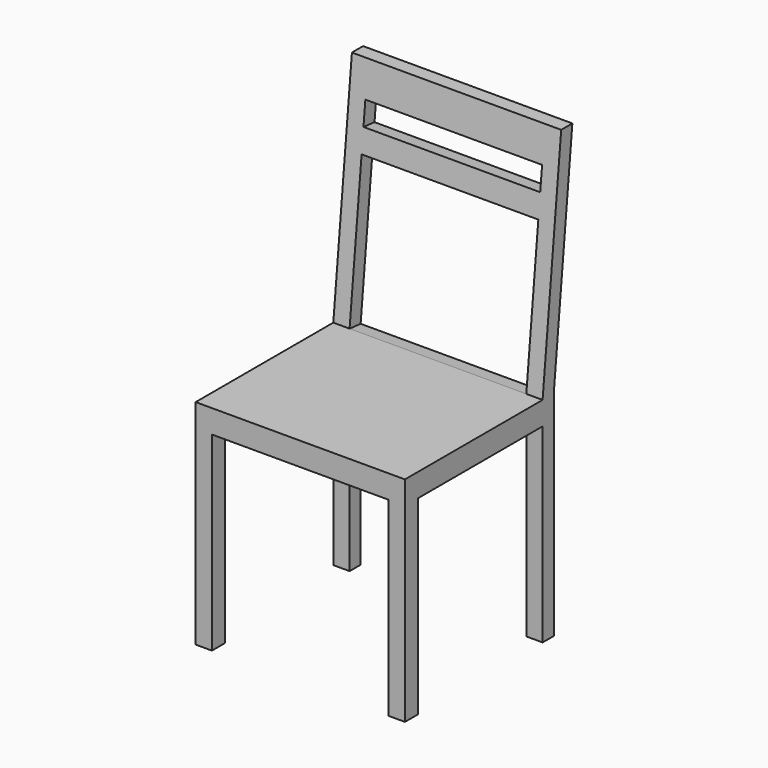
from build123d import *

# Parameters (mm, degrees)
F0_W     = 450
F0_H     = 450
F1_DEPTH = 950
F2_W     = 50
F2_H     = 409.0744554996
F2_W_2   = 335
F2_H_2   = 50
F3_DEPTH = 450.001
F4_W     = 380
F4_H     = 409.074
F5_DEPTH = 450.001
F6_W     = 380
F6_H     = 50
F6_H_2   = 318.4651864549
F7_DEPTH = 126.1046604873


with BuildPart() as f1:
    # F0 (on Top) → F1 (new body)
    with BuildSketch(Plane.XY):
        Rectangle(F0_W, F0_H)
    extrude(amount=F1_DEPTH)

    # F2 (on face) → F3 (cut, through all)
    with BuildSketch(Plane.YZ.offset(225)):
        Polygon((225, 950), (175, 459.0744554996), (225, 459.0744554996), align=None)
        Polygon((-225, 950), (-225, 459.0744554996), (145, 459.0744554996), (195, 950), align=None)
        with Locations((200, 204.5372277498)):
            Rectangle(F2_W, F2_H)
        with Locations((-22.5, 204.5372277498)):
            Rectangle(F2_W_2, F2_H)
        with Locations((200, 434.0744554996)):
            Rectangle(F2_W, F2_H_2)
    extrude(amount=-F3_DEPTH, mode=Mode.SUBTRACT)

    # F4 (on face) → F5 (cut, through all)
    with BuildSketch(Plane.XZ.offset(225)):
        with Locations((0, 204.537)):
            Rectangle(F4_W, F4_H)
    extrude(amount=-F5_DEPTH, mode=Mode.SUBTRACT)

    # F6 (on face) → F7 (cut, through all)
    with BuildSketch(Plane(origin=(0, 97.2353512241, -9.903268664), x_dir=(1, 0, 0), z_dir=(0, -0.9948534526, 0.1013242704))):
        with Locations((0, 864.869012738)):
            Rectangle(F6_W, F6_H)
        with Locations((0, 630.6364195106)):
            Rectangle(F6_W, F6_H_2)
    extrude(amount=-F7_DEPTH, mode=Mode.SUBTRACT)


solid = f1.part
